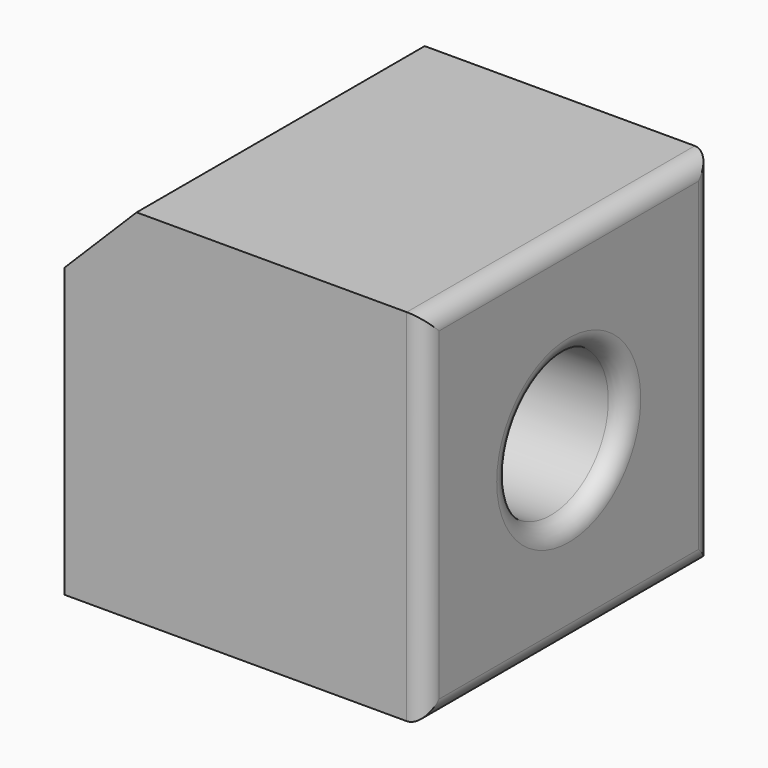
from build123d import *

# Parameters (mm, degrees)
F0_W     = 127
F0_H     = 127
F1_DEPTH = 63.5
F2_SIZE  = 25.4
F3_R     = 25.4
F4_DEPTH = 127.001
F5_R     = 6.35


with BuildPart() as f1:
    # F0 (on Front) → F1 (new body, symmetric)
    with BuildSketch(Plane.XZ):
        Rectangle(F0_W, F0_H)
    extrude(amount=F1_DEPTH, both=True)

    # F2
    f2_edges = [f1.edges().sort_by_distance(p)[0] for p in [
        (-63.5, 0, 63.5),
    ]]
    chamfer(f2_edges, length=F2_SIZE)

    # F3 (on face) → F4 (cut, through all)
    with BuildSketch(Plane(origin=(-63.5, 0, 0), x_dir=(0, -1, 0), z_dir=(-1, 0, 0))):
        Circle(F3_R)
    extrude(amount=-F4_DEPTH, mode=Mode.SUBTRACT)

    # F5
    f5_edges = [f1.edges().sort_by_distance(p)[0] for p in [
        (63.5, 63.5, 0),
        (63.5, 0, -63.5),
        (63.5, 0, 63.5),
        (63.5, -63.5, 0),
        (63.5, 25.4, 0),
    ]]
    fillet(f5_edges, radius=F5_R)


solid = f1.part
